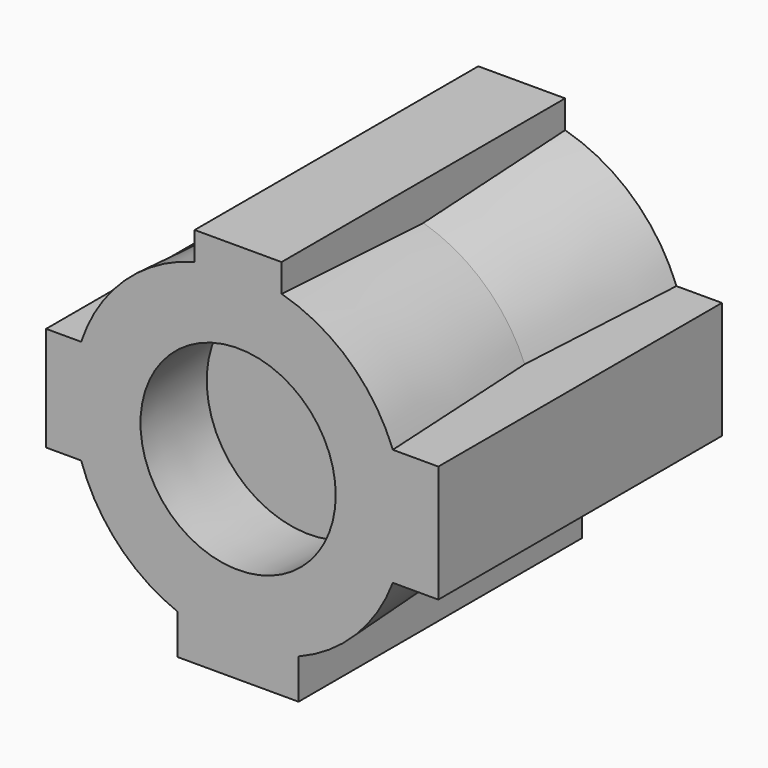
from build123d import *

# Parameters (mm, degrees)
F0_R     = 44.7502434254
F1_DEPTH = 50.8
F1_TAPER = -3
F2_W     = 24.901330471
F2_H     = 27.4275690317
F2_W_2   = 37.1715724468
F2_H_2   = 29.9537181854
F2_W_3   = 11.5484520793
F2_H_3   = 1.9849091768
F3_DEPTH = 101.6
F4_R     = 27.9776430022
F5_DEPTH = 25.4
F5_TAPER = -3


with BuildPart() as f1:
    # F0 (on Front) → F1 (new body, symmetric)
    with BuildSketch(Plane.XZ):
        Circle(F0_R)
    extrude(amount=F1_DEPTH, both=True, taper=F1_TAPER)

    # F2 (on face) → F3 (join)
    with BuildSketch(Plane(origin=(0, 50.8, 0), x_dir=(-1, 0, 0), z_dir=(0, 1, 0))):
        with BuildLine():
            ThreePointArc((47.412558613, 0), (46.8017179006, 7.5861660792), (44.9849353222, 14.9768590927))
            Line((44.9849353222, 14.9768590927), (17.8640037775, 14.9768590927))
            Line((17.8640037775, 14.9768590927), (17.8640037775, -14.9768590927))
            Line((17.8640037775, -14.9768590927), (44.9849353222, -14.9768590927))
            ThreePointArc((44.9849353222, -14.9768590927), (46.8017179006, -7.5861660792), (47.412558613, 0))
        make_face()
        with Locations((0, 40.0586426258)):
            Rectangle(F2_W, F2_H)
        with Locations((36.4497900009, 0)):
            Rectangle(F2_W_2, F2_H_2)
        Polygon((-17.3226743937, -55.5769503117), (17.3226743937, -55.5769503117), (17.3226743937, -14.7964656353), (-5.7742223144, -14.7964656353), (-5.7742223144, -16.7813748121), (-17.3226743937, -16.7813748121), align=None)
        Polygon((-57.3813542724, -16.7813748121), (-17.3226743937, -16.7813748121), (-17.3226743937, -14.7964656353), (-5.7742223144, -14.7964656353), (-5.7742223144, 16.7813748121), (-57.3813542724, 16.7813748121), align=None)
        with Locations((-11.548448354, -15.7889202237)):
            Rectangle(F2_W_3, F2_H_3)
    extrude(amount=-F3_DEPTH)

    # F4 (on face) → F5 (cut)
    with BuildSketch(Plane.XZ.offset(50.8)):
        Circle(F4_R)
    extrude(amount=-F5_DEPTH, taper=F5_TAPER, mode=Mode.SUBTRACT)


solid = f1.part
